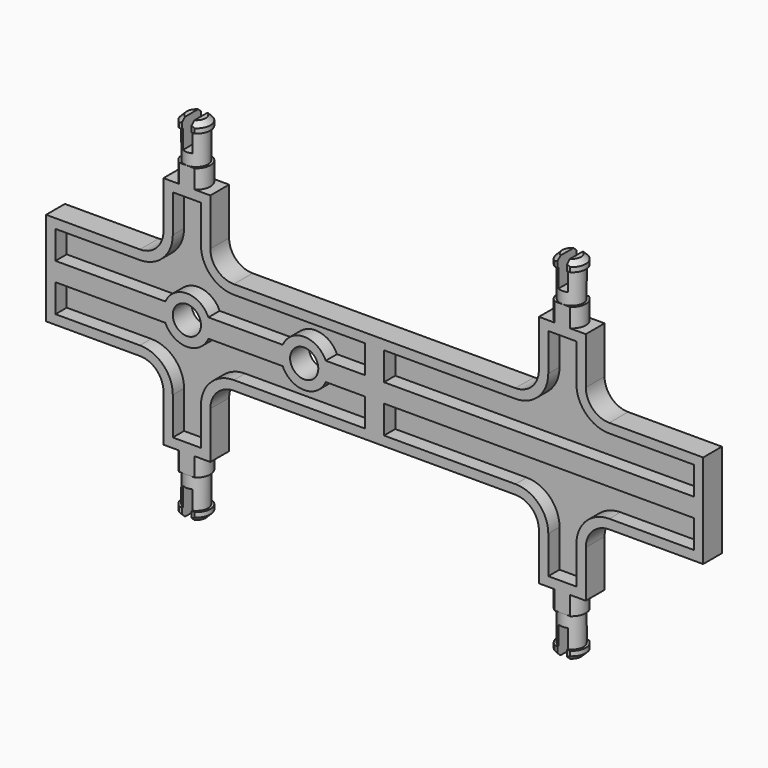
from build123d import *

# Parameters (mm, degrees)
F1_DEPTH  = 2.5
F2_T      = -2
F5_SIZE   = 1
F6_W      = 73.7499899587
F6_H      = 5
F7_DEPTH  = 37.501
F8_W      = 2
F8_H      = 7.4062455549
F9_DEPTH  = 6
F12_R     = 5
F13_DEPTH = 5
F15_D     = 6


with BuildPart() as f1:
    # F0 (on Front) → F1 (new body, symmetric)
    with BuildSketch(Plane.XZ):
        with BuildLine():
            Line((0, 10), (0, 0))
            Line((0, 0), (70, 0))
            Line((70, 0), (70, 10))
            Line((70, 10), (50, 10))
            ThreePointArc((50, 10), (46.4644660941, 11.4644660941), (45, 15))
            Line((45, 15), (45, 25))
            Line((45, 25), (35, 25))
            Line((35, 25), (35, 15))
            ThreePointArc((35, 15), (33.5355339059, 11.4644660941), (30, 10))
            Line((30, 10), (0, 10))
        make_face()
    extrude(amount=F1_DEPTH, both=True)

    # F2
    f2_openings = [f1.faces().sort_by_distance(p)[0] for p in [
        (35.933685, -2.5, 7.254637),
    ]]
    offset(amount=F2_T, openings=f2_openings)

    # F3 (on Front) → F4 (revolve)
    with BuildSketch(Plane.XZ):
        Polygon((37, 25), (40, 25), (40, 37.5), (37, 37.5), (37, 35.5), (37.5, 35.5), (37.5, 29), (37, 29), align=None)
    revolve(axis=Axis((40, 0, 31.25), (0, 0, 1)))

    # F5
    f5_edges = [f1.edges().sort_by_distance(p)[0] for p in [
        (43, 0, 37.5),
    ]]
    chamfer(f5_edges, length=F5_SIZE)

    # F6 (on face) → F7 (intersect, through all)
    with BuildSketch(Plane.XY.offset(37.5)):
        with Locations((35.0708486512, 0)):
            Rectangle(F6_W, F6_H)
    extrude(amount=-F7_DEPTH, mode=Mode.INTERSECT)

    # F8 (on face) → F9 (cut)
    with BuildSketch(Plane.XY.offset(37.5)):
        with Locations((40, -0.1854714938)):
            Rectangle(F8_W, F8_H)
    extrude(amount=-F9_DEPTH, mode=Mode.SUBTRACT)

    # F10: F1 across plane


with BuildPart() as f1_1:
    add(f1.part)
    add(f1.part.mirror(Plane.XY))

    # F11: F1 across plane


with BuildPart() as f1_2:
    add(f1_1.part)
    add(f1_1.part.mirror(Plane.YZ))

    # F12 (on face) → F13 (join, through all)
    with BuildSketch(Plane.XZ.offset(2.5)):
        with Locations((-40, 0)):
            Circle(F12_R)
        with Locations((-15, 0)):
            Circle(F12_R)
    extrude(amount=-F13_DEPTH)

    # F15 (through all)
    with Locations(Plane.XZ.offset(2.5)):
        with Locations((-40, 0), (-15, 0)):
            Hole(F15_D / 2)


solid = f1_2.part
